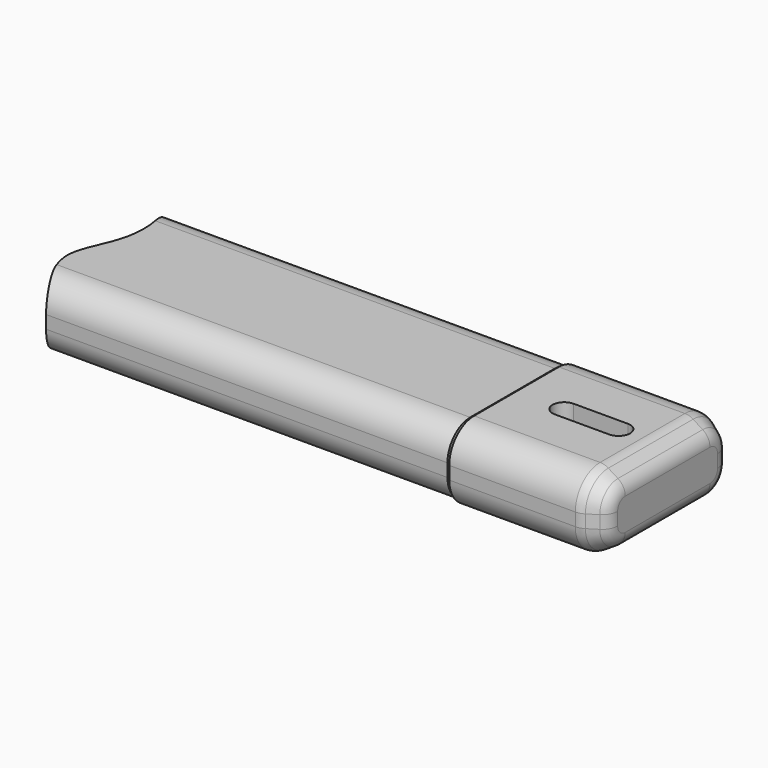
from build123d import *

# Parameters (mm, degrees)
PAD009_DEPTH            = 60
CHAMFER_SIZE2           = 5
CHAMFER_SIZE            = 8
FILLET005_R             = 6
CHAMFER001_SIZE2        = 1.5
CHAMFER001_SIZE         = 1
PAD010_DEPTH            = 250
POCKET006_DEPTH         = 14.501
POCKET006_DEPTH_BACK    = 14.501
BODY007_ROLL_ANGLE      = -90
BODY007_PLACEMENT_ANGLE = -90


with BuildPart() as part:
    # Sketch016 → Pad009 (new body)
    with BuildSketch(Plane.XY):
        with BuildLine():
            Line((-20.5, 14.5), (20.5, 14.5))
            ThreePointArc((32.5, 2.5), (28.985281, 10.985281), (20.5, 14.5))
            Line((32.5, 2.5), (32.5, -2.5))
            ThreePointArc((20.5, -14.5), (28.985281, -10.985281), (32.5, -2.5))
            Line((20.5, -14.5), (-20.5, -14.5))
            ThreePointArc((-32.5, -2.5), (-28.985281, -10.985281), (-20.5, -14.5))
            Line((-32.5, -2.5), (-32.5, 2.5))
            ThreePointArc((-20.5, 14.5), (-28.985281, 10.985281), (-32.5, 2.5))
        make_face()
    extrude(amount=PAD009_DEPTH)

    # Chamfer
    chamfer_edges = [part.edges().sort_by_distance(p)[0] for p in [
        (0, -14.5, 60),
    ]]
    chamfer_side = part.faces().sort_by_distance((0, -14.5, 30))[0]
    chamfer(chamfer_edges, length=CHAMFER_SIZE, length2=CHAMFER_SIZE2, reference=chamfer_side)

    # Fillet005
    fillet005_edges = [part.edges().sort_by_distance(p)[0] for p in [
        (0, -14.5, 52),
        (0, -9.5, 60),
    ]]
    fillet(fillet005_edges, radius=FILLET005_R)

    # Chamfer001
    chamfer001_edges = [part.edges().sort_by_distance(p)[0] for p in [
        (28.985281, 10.985281, 0),
    ]]
    chamfer001_side = part.faces().sort_by_distance((0, 0, 0))[0]
    chamfer(chamfer001_edges, length=CHAMFER001_SIZE, length2=CHAMFER001_SIZE2, reference=chamfer001_side)

    # Chamfer001 Face10 → Pad010 (add)
    with BuildSketch(Plane(origin=(0, 0, 0), x_dir=(0, -1, 0), z_dir=(0, 0, -1))):
        with BuildLine():
            ThreePointArc((-13.5, -20.5), (-10.278175, -28.278175), (-2.5, -31.5))
            Line((-2.5, -31.5), (2.5, -31.5))
            ThreePointArc((2.5, -31.5), (10.278175, -28.278175), (13.5, -20.5))
            Line((13.5, -20.5), (13.5, 20.5))
            ThreePointArc((13.5, 20.5), (10.278175, 28.278175), (2.5, 31.5))
            Line((2.5, 31.5), (-2.5, 31.5))
            ThreePointArc((-2.5, 31.5), (-10.278175, 28.278175), (-13.5, 20.5))
            Line((-13.5, 20.5), (-13.5, -20.5))
        make_face()
    extrude(amount=PAD010_DEPTH)

    # Sketch017 → Pocket006 (cut, two sides)
    with BuildSketch(Plane.XZ) as pocket006_sk:
        with BuildLine():
            add(Edge.make_bspline(
                [(-46.924385, -167.352493), (-10.000406, -141.329865), (10.044039, -182.122086), (64.199211, -118.823822), (72.992912, -313.765839), (-68.724876, -304.271088), (-46.924385, -167.352493)],
                knots=[0, 0, 0, 0, 0.25, 0.5, 0.75, 1, 1, 1, 1], degree=3))
        make_face()
        with BuildLine():
            ThreePointArc((4.5, 40.999982), (0, 45.499982), (-4.5, 40.999982))
            Line((-4.5, 40.999982), (-4.5, 19.999982))
            ThreePointArc((-4.5, 19.999982), (0, 15.5), (4.5, 19.999982))
            Line((4.5, 19.999982), (4.5, 40.999982))
        make_face()
    extrude(amount=-POCKET006_DEPTH, mode=Mode.SUBTRACT)
    extrude(pocket006_sk.sketch, amount=POCKET006_DEPTH_BACK, mode=Mode.SUBTRACT)


with BuildPart() as part_1:
    # Body007 roll: moved
    add(part.part.rotate(Axis((0, 0, 0), (1, 0, 0)), BODY007_ROLL_ANGLE))


with BuildPart() as part_2:
    # Body007 placement: moved
    add(part_1.part.moved(Location((-28, 0, -14))).rotate(Axis((-28, 0, -14), (0, 0, 1)), BODY007_PLACEMENT_ANGLE))


solid = part_2.part
